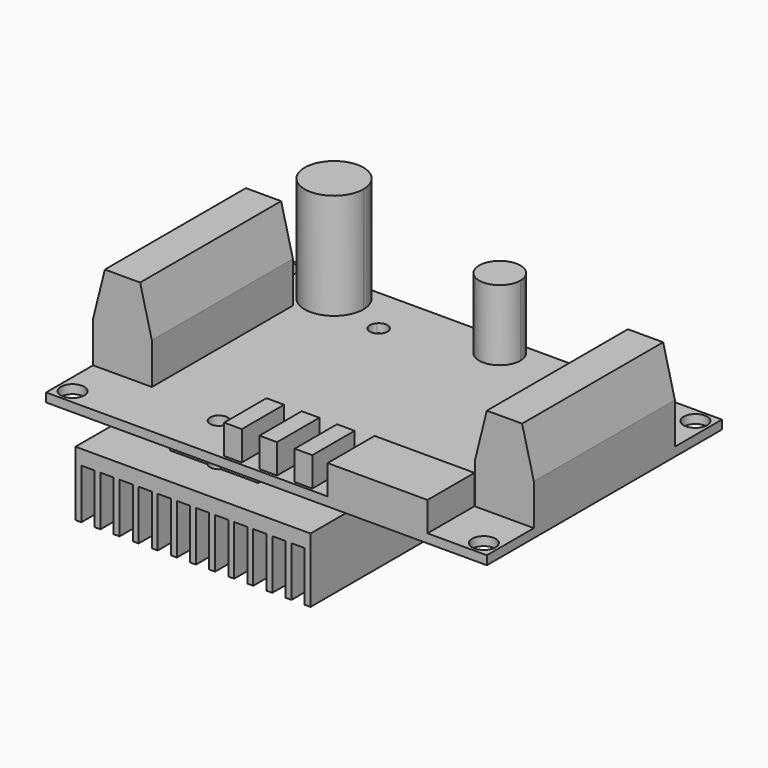
from build123d import *

# Parameters (mm, degrees)
F0_R      = 2
F0_W      = 3
F0_H      = 9
F0_W_2    = 10
F0_H_2    = 15
F0_W_3    = 17
F0_H_3    = 10
F1_DEPTH  = 1.5
F2_DEPTH  = 7
F3_DEPTH  = 5
F5_DEPTH  = 30
F6_DEPTH  = 18
F7_DEPTH  = 12
F9_DEPTH  = 5
F10_W     = 40
F10_H     = 50
F11_DEPTH = 2.5
F12_W     = 1
F12_H     = 50
F13_DEPTH = 8.5
F14_DEPTH = 50


with BuildPart() as f1:
    # F0 (on Top) → F1 (new body)
    with BuildSketch(Plane.XY):
        Polygon((27.4, -25), (37.5, -25), (37.5, -15), (27.5, -15), (27.5, 0), (27.5, 15), (37.5, 15), (37.5, 25), (2.500000039, 25), (-24.4999999811, 25), (-37.5, 25), (-37.5, 15), (-27.5, 15), (-27.5, 0), (-27.5, -15), (-37.5, -15), (-37.5, -25), (10.4, -25), (10.4, -15), (27.4, -15), align=None)
        with Locations((-35, -22.5)):
            Circle(F0_R, mode=Mode.SUBTRACT)
        with Locations((-6.1, -20)):
            Rectangle(F0_W, F0_H, mode=Mode.SUBTRACT)
        with Locations((-0.1, -20)):
            Rectangle(F0_W, F0_H, mode=Mode.SUBTRACT)
        with Locations((5.9, -20)):
            Rectangle(F0_W, F0_H, mode=Mode.SUBTRACT)
        with Locations((35, -22.5)):
            Circle(F0_R, mode=Mode.SUBTRACT)
        with Locations((-35, 22.5)):
            Circle(F0_R, mode=Mode.SUBTRACT)
        with BuildLine():
            ThreePointArc((-19.5, 20), (-28.0355339126, 16.4644661007), (-24.4999999811, 25))
            ThreePointArc((-24.4999999811, 25), (-20.9644660874, 23.5355338993), (-19.5, 20))
        make_face(mode=Mode.SUBTRACT)
        with BuildLine():
            ThreePointArc((6, 21.5), (0.025126252, 19.0251262796), (2.500000039, 25))
            ThreePointArc((2.500000039, 25), (4.974873748, 23.9748737204), (6, 21.5))
        make_face(mode=Mode.SUBTRACT)
        with Locations((35, 22.5)):
            Circle(F0_R, mode=Mode.SUBTRACT)
        Polygon((27.4, -25), (37.5, -25), (37.5, -15), (27.5, -15), (27.5, 0), (27.5, 15), (37.5, 15), (37.5, 25), (2.500000039, 25), (-24.4999999811, 25), (-37.5, 25), (-37.5, 15), (-27.5, 15), (-27.5, 0), (-27.5, -15), (-37.5, -15), (-37.5, -25), (10.4, -25), (10.4, -15), (27.4, -15), align=None)
        with Locations((-35, -22.5)):
            Circle(F0_R, mode=Mode.SUBTRACT)
        with Locations((-6.1, -20)):
            Rectangle(F0_W, F0_H, mode=Mode.SUBTRACT)
        with Locations((-0.1, -20)):
            Rectangle(F0_W, F0_H, mode=Mode.SUBTRACT)
        with Locations((5.9, -20)):
            Rectangle(F0_W, F0_H, mode=Mode.SUBTRACT)
        with Locations((35, -22.5)):
            Circle(F0_R, mode=Mode.SUBTRACT)
        with Locations((-35, 22.5)):
            Circle(F0_R, mode=Mode.SUBTRACT)
        with BuildLine():
            ThreePointArc((-19.5, 20), (-28.0355339126, 16.4644661007), (-24.4999999811, 25))
            ThreePointArc((-24.4999999811, 25), (-20.9644660874, 23.5355338993), (-19.5, 20))
        make_face(mode=Mode.SUBTRACT)
        with BuildLine():
            ThreePointArc((6, 21.5), (0.025126252, 19.0251262796), (2.500000039, 25))
            ThreePointArc((2.500000039, 25), (4.974873748, 23.9748737204), (6, 21.5))
        make_face(mode=Mode.SUBTRACT)
        with Locations((35, 22.5)):
            Circle(F0_R, mode=Mode.SUBTRACT)
        with Locations((32.5, -7.5)):
            Rectangle(F0_W_2, F0_H_2)
        with Locations((32.5, 7.5)):
            Rectangle(F0_W_2, F0_H_2)
        with Locations((-32.5, -7.5)):
            Rectangle(F0_W_2, F0_H_2)
        with Locations((-32.5, 7.5)):
            Rectangle(F0_W_2, F0_H_2)
        with BuildLine():
            ThreePointArc((-19.5, 20), (-20.9644660874, 23.5355338993), (-24.4999999811, 25))
            ThreePointArc((-24.4999999811, 25), (-28.0355339126, 16.4644661007), (-19.5, 20))
        make_face()
        with BuildLine():
            ThreePointArc((6, 21.5), (4.974873748, 23.9748737204), (2.500000039, 25))
            ThreePointArc((2.500000039, 25), (0.025126252, 19.0251262796), (6, 21.5))
        make_face()
        with Locations((5.9, -20)):
            Rectangle(F0_W, F0_H)
        with Locations((-0.1, -20)):
            Rectangle(F0_W, F0_H)
        with Locations((-6.1, -20)):
            Rectangle(F0_W, F0_H)
        with Locations((18.9, -20)):
            Rectangle(F0_W_3, F0_H_3)
    extrude(amount=-F1_DEPTH)

    # F0 (on Top) → F2 (join)
    with BuildSketch(Plane.XY):
        with Locations((-32.5, 7.5)):
            Rectangle(F0_W_2, F0_H_2)
        with Locations((-32.5, -7.5)):
            Rectangle(F0_W_2, F0_H_2)
        with Locations((32.5, -7.5)):
            Rectangle(F0_W_2, F0_H_2)
        with Locations((32.5, 7.5)):
            Rectangle(F0_W_2, F0_H_2)
    extrude(amount=F2_DEPTH)

    # F0 (on Top) → F3 (join)
    with BuildSketch(Plane.XY):
        with Locations((-6.1, -20)):
            Rectangle(F0_W, F0_H)
        with Locations((-0.1, -20)):
            Rectangle(F0_W, F0_H)
        with Locations((5.9, -20)):
            Rectangle(F0_W, F0_H)
        with Locations((18.9, -20)):
            Rectangle(F0_W_3, F0_H_3)
    extrude(amount=F3_DEPTH)

    # F4 (on face) → F5 (join, through all)
    with BuildSketch(Plane.XZ.offset(15)):
        Polygon((-29.5, 15), (-35.5, 15), (-37.5, 7), (-27.5, 7), align=None)
        Polygon((37.5, 7), (35.5, 15), (29.5, 15), (27.5, 7), align=None)
    extrude(amount=-F5_DEPTH)

    # F0 (on Top) → F6 (join)
    with BuildSketch(Plane.XY):
        with BuildLine():
            ThreePointArc((-19.5, 20), (-20.9644660874, 23.5355338993), (-24.4999999811, 25))
            ThreePointArc((-24.4999999811, 25), (-28.0355339126, 16.4644661007), (-19.5, 20))
        make_face()
    extrude(amount=F6_DEPTH)

    # F0 (on Top) → F7 (join)
    with BuildSketch(Plane.XY):
        with BuildLine():
            ThreePointArc((6, 21.5), (4.974873748, 23.9748737204), (2.500000039, 25))
            ThreePointArc((2.500000039, 25), (0.025126252, 19.0251262796), (6, 21.5))
        make_face()
    extrude(amount=F7_DEPTH)


with BuildPart() as f9:
    # F8 (on face) → F9 (new body)
    with BuildSketch(Plane(origin=(0, 0, -1.5), x_dir=(1, 0, 0), z_dir=(0, 0, -1))):
        with BuildLine():
            Line((-7, -18), (-7, 18))
            Line((-7, 18), (-13.3819660113, 18))
            ThreePointArc((-13.3819660113, 18), (-13.0987414616, 17.5352331347), (-13, 17))
            ThreePointArc((-13, 17), (-15.0352331347, 15.5987414616), (-15.6180339887, 18))
            Line((-15.6180339887, 18), (-22, 18))
            Line((-22, 18), (-22, -18))
            Line((-22, -18), (-15.6180339887, -18))
            ThreePointArc((-15.6180339887, -18), (-15.0352331347, -15.5987414616), (-13, -17))
            ThreePointArc((-13, -17), (-13.0987414616, -17.5352331347), (-13.3819660113, -18))
            Line((-13.3819660113, -18), (-7, -18))
        make_face()
    extrude(amount=F9_DEPTH)


with BuildPart() as f11:
    # F10 (on face) → F11 (new body)
    with BuildSketch(Plane(origin=(0, 0, -6.5), x_dir=(1, 0, 0), z_dir=(0, 0, -1))):
        with Locations((-12.5, 0)):
            Rectangle(F10_W, F10_H)
        with BuildLine():
            Line((-7, -18), (-13.3819660113, -18))
            ThreePointArc((-13.3819660113, -18), (-13.0987414616, -17.5352331347), (-13, -17))
            ThreePointArc((-13, -17), (-15.0352331347, -15.5987414616), (-15.6180339887, -18))
            Line((-15.6180339887, -18), (-22, -18))
            Line((-22, -18), (-22, 18))
            Line((-22, 18), (-15.6180339887, 18))
            ThreePointArc((-15.6180339887, 18), (-14.5, 15.5), (-13.3819660113, 18))
            Line((-13.3819660113, 18), (-7, 18))
            Line((-7, 18), (-7, -18))
        make_face(mode=Mode.SUBTRACT)
        with BuildLine():
            ThreePointArc((-13, -17), (-13.0987414616, -17.5352331347), (-13.3819660113, -18))
            Line((-13.3819660113, -18), (-7, -18))
            Line((-7, -18), (-7, 18))
            Line((-7, 18), (-13.3819660113, 18))
            ThreePointArc((-13.3819660113, 18), (-14.5, 15.5), (-15.6180339887, 18))
            Line((-15.6180339887, 18), (-22, 18))
            Line((-22, 18), (-22, -18))
            Line((-22, -18), (-15.6180339887, -18))
            ThreePointArc((-15.6180339887, -18), (-15.0352331347, -15.5987414616), (-13, -17))
        make_face()
    extrude(amount=F11_DEPTH)

    # F12 (on face) → F13 (join)
    with BuildSketch(Plane(origin=(0, 0, -9), x_dir=(1, 0, 0), z_dir=(0, 0, -1))):
        with Locations((7, 0)):
            Rectangle(F12_W, F12_H)
        with Locations((3.75, 0)):
            Rectangle(F12_W, F12_H)
        with Locations((0.5, 0)):
            Rectangle(F12_W, F12_H)
        with Locations((-2.75, 0)):
            Rectangle(F12_W, F12_H)
        with Locations((-6, 0)):
            Rectangle(F12_W, F12_H)
        with Locations((-9.25, 0)):
            Rectangle(F12_W, F12_H)
        with Locations((-12.5, 0)):
            Rectangle(F12_W, F12_H)
        with Locations((-15.75, 0)):
            Rectangle(F12_W, F12_H)
        with Locations((-19, 0)):
            Rectangle(F12_W, F12_H)
        with Locations((-22.25, 0)):
            Rectangle(F12_W, F12_H)
        with Locations((-25.5, 0)):
            Rectangle(F12_W, F12_H)
        with Locations((-28.75, 0)):
            Rectangle(F12_W, F12_H)
        with Locations((-32, 0)):
            Rectangle(F12_W, F12_H)
    extrude(amount=F13_DEPTH)


with BuildPart() as f14_tool:
    # F8 (on face) → F14 (new body, symmetric)
    with BuildSketch(Plane(origin=(0, 0, -1.5), x_dir=(1, 0, 0), z_dir=(0, 0, -1))):
        with BuildLine():
            ThreePointArc((-13, 17), (-13.0987414616, 17.5352331347), (-13.3819660113, 18))
            Line((-13.3819660113, 18), (-15.6180339887, 18))
            ThreePointArc((-15.6180339887, 18), (-15.0352331347, 15.5987414616), (-13, 17))
        make_face()
        with BuildLine():
            Line((-15.6180339887, 18), (-13.3819660113, 18))
            ThreePointArc((-13.3819660113, 18), (-14.5, 18.5), (-15.6180339887, 18))
        make_face()
        with BuildLine():
            Line((-15.6180339887, -18), (-13.3819660113, -18))
            ThreePointArc((-13.3819660113, -18), (-13.0987414616, -17.5352331347), (-13, -17))
            ThreePointArc((-13, -17), (-15.0352331347, -15.5987414616), (-15.6180339887, -18))
        make_face()
        with BuildLine():
            ThreePointArc((-15.6180339887, -18), (-14.5, -18.5), (-13.3819660113, -18))
            Line((-13.3819660113, -18), (-15.6180339887, -18))
        make_face()
    extrude(amount=F14_DEPTH, both=True)


with BuildPart() as f1_1:
    add(f1.part)

    # F14: cut by f14_tool
    add(f14_tool.part, mode=Mode.SUBTRACT)


with BuildPart() as f11_1:
    add(f11.part)

    # F14: cut by f14_tool
    add(f14_tool.part, mode=Mode.SUBTRACT)


solid = Compound([f9.part, f1_1.part, f11_1.part])
